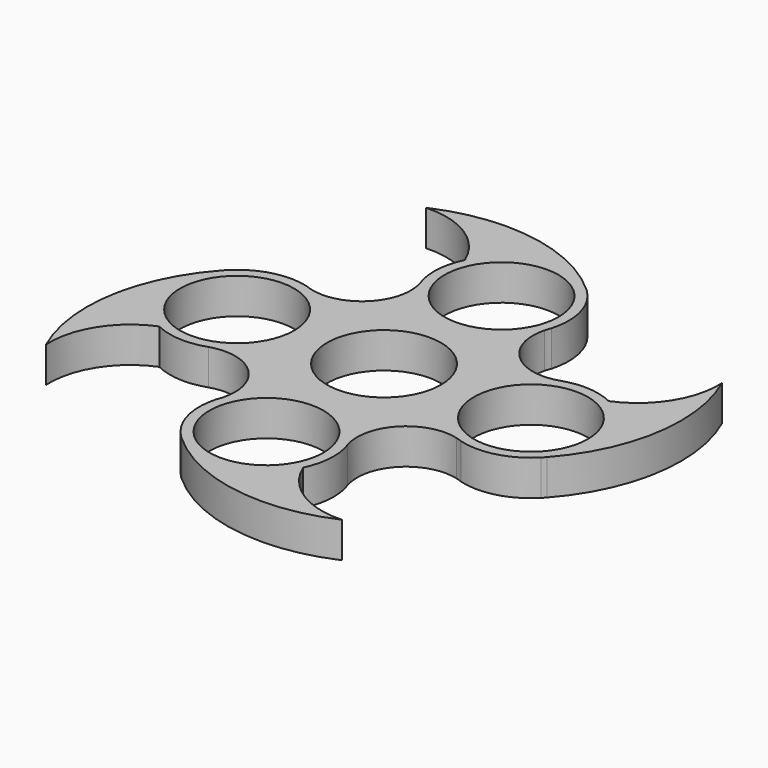
from build123d import *

# Parameters (mm, degrees)
F0_R     = 11.2
F1_DEPTH = 7


with BuildPart() as f1:
    # F0 (on Top) → F1 (new body)
    with BuildSketch(Plane.XY):
        with BuildLine():
            ThreePointArc((24.553055, 12.4748), (14.982637, 14.634154), (12.297289, 24.070499))
            ThreePointArc((12.297289, 24.070499), (12.478436, 24.674466), (12.698807, 25.26525))
            ThreePointArc((12.698807, 25.26525), (12.767369, 32.219828), (9.291576, 38.243923))
            ThreePointArc((9.291576, 38.243923), (8.946641, 38.566655), (8.59718, 38.884481))
            ThreePointArc((8.59718, 38.884481), (-8.555063, 47.022826), (-27.372813, 44.507995))
            ThreePointArc((-27.372813, 44.507995), (-18.050535, 42.061753), (-11.850086, 34.683177))
            ThreePointArc((-11.850086, 34.683177), (-13.174971, 29.680558), (-12.4748, 24.553055))
            ThreePointArc((-12.4748, 24.553055), (-14.634154, 14.982637), (-24.070499, 12.297289))
            ThreePointArc((-24.070499, 12.297289), (-24.674466, 12.478436), (-25.26525, 12.698807))
            ThreePointArc((-25.26525, 12.698807), (-32.219828, 12.767369), (-38.243923, 9.291576))
            ThreePointArc((-38.243923, 9.291576), (-38.566655, 8.946641), (-38.884481, 8.59718))
            ThreePointArc((-38.884481, 8.59718), (-47.022826, -8.555063), (-44.507995, -27.372813))
            ThreePointArc((-44.507995, -27.372813), (-42.061753, -18.050535), (-34.683177, -11.850086))
            ThreePointArc((-34.683177, -11.850086), (-29.680558, -13.174971), (-24.553055, -12.4748))
            ThreePointArc((-24.553055, -12.4748), (-14.982637, -14.634154), (-12.297289, -24.070499))
            ThreePointArc((-12.297289, -24.070499), (-12.478436, -24.674466), (-12.698807, -25.26525))
            ThreePointArc((-12.698807, -25.26525), (-12.767369, -32.219828), (-9.291576, -38.243923))
            ThreePointArc((-9.291576, -38.243923), (-8.946641, -38.566655), (-8.59718, -38.884481))
            ThreePointArc((-8.59718, -38.884481), (8.555063, -47.022826), (27.372813, -44.507995))
            ThreePointArc((27.372813, -44.507995), (18.050535, -42.061753), (11.850086, -34.683177))
            ThreePointArc((11.850086, -34.683177), (13.174971, -29.680558), (12.4748, -24.553055))
            ThreePointArc((12.4748, -24.553055), (14.634154, -14.982637), (24.070499, -12.297289))
            ThreePointArc((24.070499, -12.297289), (24.674466, -12.478436), (25.26525, -12.698807))
            ThreePointArc((25.26525, -12.698807), (32.219828, -12.767369), (38.243923, -9.291576))
            ThreePointArc((38.243923, -9.291576), (38.566655, -8.946641), (38.884481, -8.59718))
            ThreePointArc((38.884481, -8.59718), (47.022826, 8.555063), (44.507995, 27.372813))
            ThreePointArc((44.507995, 27.372813), (42.061753, 18.050535), (34.683177, 11.850086))
            ThreePointArc((34.683177, 11.850086), (29.680558, 13.174971), (24.553055, 12.4748))
        make_face()
        with Locations((0, -28.86807)):
            Circle(F0_R, mode=Mode.SUBTRACT)
        with Locations((-28.86807, 0)):
            Circle(F0_R, mode=Mode.SUBTRACT)
        Circle(F0_R, mode=Mode.SUBTRACT)
        with Locations((0, 28.86807)):
            Circle(F0_R, mode=Mode.SUBTRACT)
        with Locations((28.86807, 0)):
            Circle(F0_R, mode=Mode.SUBTRACT)
    extrude(amount=F1_DEPTH)


solid = f1.part
